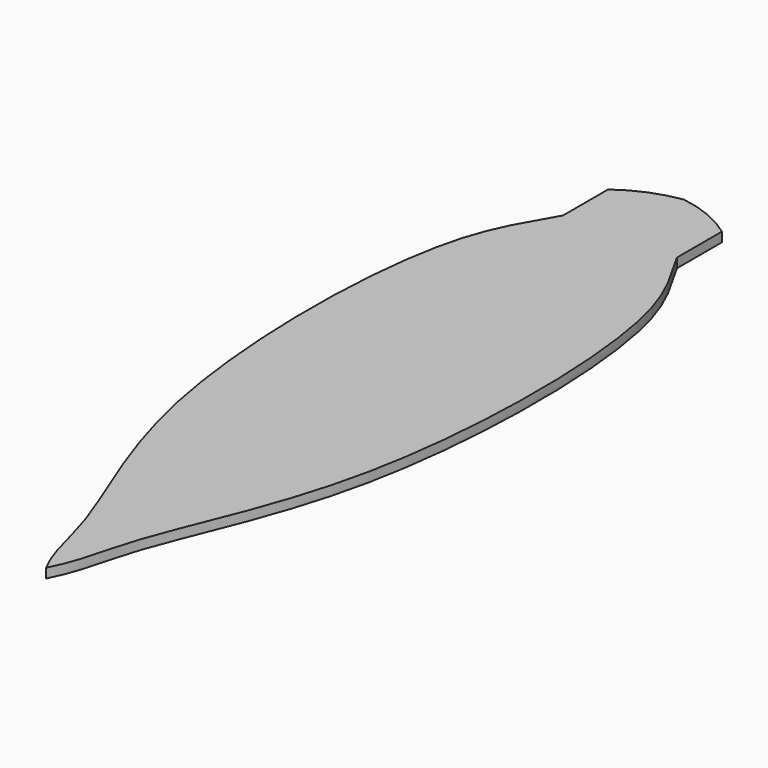
from build123d import *

# Parameters (mm, degrees)
F1_DEPTH = 12.7


with BuildPart() as f1:
    # F0 (on Top) → F1 (new body)
    with BuildSketch(Plane.XY):
        with BuildLine():
            Line((-76.2, 240.9512801597), (-76.2, 165.7536232223))
            add(Edge.make_bspline(
                [(-76.2, 165.7536232223), (-87.5461395236, 142.7060091543), (-158.322032287, 54.332806781), (-160.0229913718, -425.4641270136), (-28.2991169966, -674.7733581716), (-18.1428712038, -760.455191216), (0, -794.1216259309)],
                knots=[0, 0, 0, 0, 0.1809270507, 0.5426219142, 0.8229493678, 1, 1, 1, 1], degree=3))
            add(Edge.make_bspline(
                [(76.2, 165.7536232223), (87.5461395236, 142.7060091543), (158.322032287, 54.332806781), (160.0229913718, -425.4641270136), (28.2991169966, -674.7733581716), (18.1428712038, -760.455191216), (0, -794.1216259309)],
                knots=[0, 0, 0, 0, 0.1809270507, 0.5426219142, 0.8229493678, 1, 1, 1, 1], degree=3))
            Line((76.2, 165.7536232223), (76.2, 240.9512801597))
            ThreePointArc((76.2, 240.9512801597), (40.0911399896, 261.5970132056), (0, 272.6783740691))
            ThreePointArc((0, 272.6783740691), (-40.0911399896, 261.5970132056), (-76.2, 240.9512801597))
        make_face()
    extrude(amount=F1_DEPTH)


solid = f1.part
